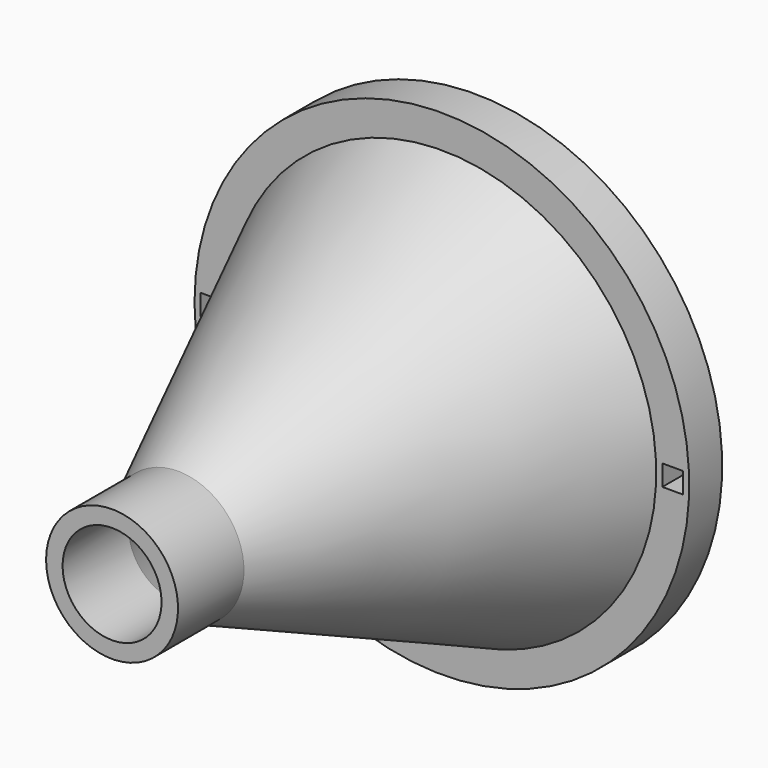
from build123d import *

# Parameters (mm, degrees)
F0_W     = 2.54
F0_H     = 12.7
F2_R     = 38.1
F2_R_2   = 33.02
F3_DEPTH = 6.35
F4_R     = 33.02
F4_R_2   = 30.48
F5_DEPTH = 6.35


with BuildPart() as f1:
    # F0 (on Top) → F1 (revolve)
    with BuildSketch(Plane.XY):
        Polygon((-2.54, 12.7), (0, 12.7), (-22.86, 63.5), (-25.4, 63.5), align=None)
        with Locations((-1.27, 6.35)):
            Rectangle(F0_W, F0_H)
    revolve(axis=Axis((7.62, 34.9172540009, 0), (0, 1, 0)))

    # F2 (on face) → F3 (join)
    with BuildSketch(Plane(origin=(0, 63.5, 0), x_dir=(-1, 0, 0), z_dir=(0, 1, 0))):
        with Locations((-7.62, 0)):
            Circle(F2_R)
        Polygon((-41.5798, -1.6002), (-43.18, -1.6002), (-44.7802, -1.6002), (-44.7802, 1.6002), (-43.18, 1.6002), (-41.5798, 1.6002), align=None, mode=Mode.SUBTRACT)
        with Locations((-7.62, 0)):
            Circle(F2_R_2, mode=Mode.SUBTRACT)
        Polygon((27.94, -1.6002), (26.3398, -1.6002), (26.3398, 1.6002), (27.94, 1.6002), (29.5402, 1.6002), (29.5402, -1.6002), align=None, mode=Mode.SUBTRACT)
    extrude(amount=F3_DEPTH)

    # F4 (on face) → F5 (join)
    with BuildSketch(Plane(origin=(0, 63.5, 0), x_dir=(-1, 0, 0), z_dir=(0, 1, 0))):
        with Locations((-7.62, 0)):
            Circle(F4_R)
        with Locations((-7.62, 0)):
            Circle(F4_R_2, mode=Mode.SUBTRACT)
    extrude(amount=F5_DEPTH)


solid = f1.part
